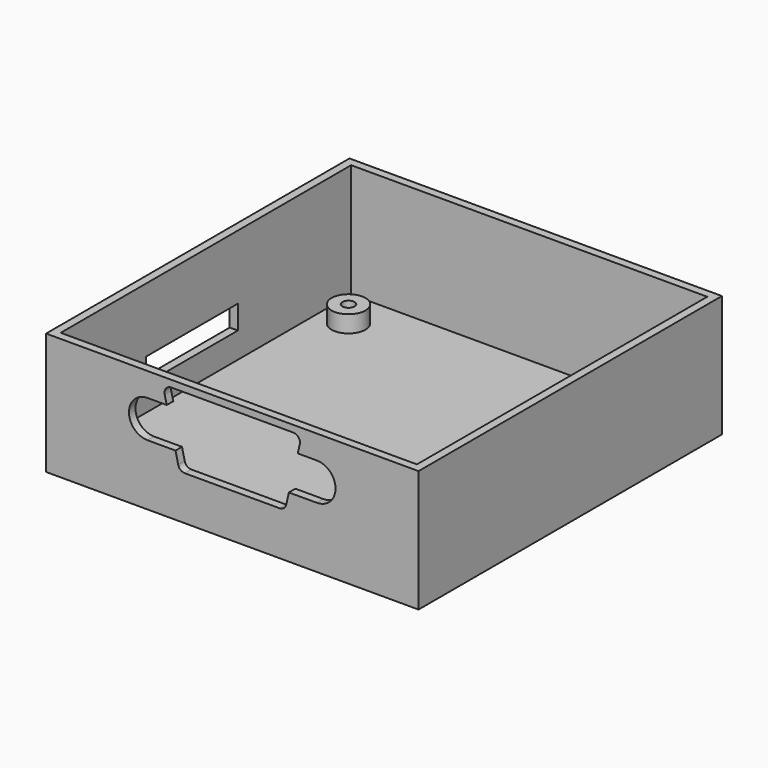
from build123d import *

# Parameters (mm, degrees)
SKETCH105_W     = 55
SKETCH105_H     = 56
PAD075_DEPTH    = 18
SKETCH012_W     = 52.6
SKETCH012_H     = 53.6
POCKET028_DEPTH = 16.8
POCKET029_DEPTH = 1.2
SKETCH014_W     = 17
SKETCH014_H     = 3.5
POCKET030_DEPTH = 1.2
SKETCH015_R     = 2.5
SKETCH015_R_2   = 0.9
PAD010_DEPTH    = 2.5


with BuildPart() as part:
    # Sketch105 → Pad075 (new body)
    with BuildSketch(Plane.XY):
        Rectangle(SKETCH105_W, SKETCH105_H)
    extrude(amount=PAD075_DEPTH)

    # Sketch012 (on Face6 of Pad075) → Pocket028 (cut)
    with BuildSketch(Plane.XY.offset(18)):
        Rectangle(SKETCH012_W, SKETCH012_H)
    extrude(amount=-POCKET028_DEPTH, mode=Mode.SUBTRACT)

    # Sketch013 (on Face6 of Pocket028) → Pocket029 (cut)
    with BuildSketch(Plane.XZ.offset(28)):
        with BuildLine():
            ThreePointArc((12.47, 9.000073), (15.239982, 11.74), (12.49, 14.5))
            Line((9.66, 14.5), (12.49, 14.5))
            Line((9.66, 14.5), (9.962666, 15.767791))
            ThreePointArc((9.962666, 15.767791), (9.774923, 16.619593), (8.99, 17))
            Line((-9.01, 17), (8.99, 17))
            ThreePointArc((-9.01, 17), (-9.794923, 16.619593), (-9.982666, 15.767791))
            Line((-9.68, 14.5), (-9.982666, 15.767791))
            Line((-12.51, 14.5), (-9.68, 14.5))
            ThreePointArc((-12.51, 14.5), (-15.26, 11.75), (-12.51, 9))
            Line((-12.51, 9), (-8.39, 9))
            Line((-7.983449, 7.271094), (-8.39, 9))
            ThreePointArc((-7.983449, 7.271094), (-7.630924, 6.716129), (-7.01, 6.5))
            Line((6.99, 6.5), (-7.01, 6.5))
            ThreePointArc((6.99, 6.5), (7.615236, 6.719564), (7.965913, 7.281839))
            Line((7.965913, 7.281839), (8.35, 9))
            Line((8.35, 9), (12.47, 9.000073))
        make_face()
    extrude(amount=-POCKET029_DEPTH, mode=Mode.SUBTRACT)

    # Sketch014 (on Face2 of Pocket029) → Pocket030 (cut)
    with BuildSketch(Plane(origin=(-27.5, 0, 0), x_dir=(0, -1, 0), z_dir=(-1, 0, 0))):
        with Locations((2.6, 6.75)):
            Rectangle(SKETCH014_W, SKETCH014_H)
    extrude(amount=-POCKET030_DEPTH, mode=Mode.SUBTRACT)

    # Sketch015 (on Face31 of Pocket030) → Pad010 (join)
    with BuildSketch(Plane.XY.offset(1.2)):
        with Locations((22, -23.05)):
            Circle(SKETCH015_R)
        with Locations((22, -23.05)):
            Circle(SKETCH015_R_2, mode=Mode.SUBTRACT)
        with Locations((-22, -23.05)):
            Circle(SKETCH015_R)
        with Locations((-22, -23.05)):
            Circle(SKETCH015_R_2, mode=Mode.SUBTRACT)
        with Locations((22, 20.95)):
            Circle(SKETCH015_R)
        with Locations((22, 20.95)):
            Circle(SKETCH015_R_2, mode=Mode.SUBTRACT)
        with Locations((-22, 20.95)):
            Circle(SKETCH015_R)
        with Locations((-22, 20.95)):
            Circle(SKETCH015_R_2, mode=Mode.SUBTRACT)
    extrude(amount=PAD010_DEPTH)


solid = part.part
